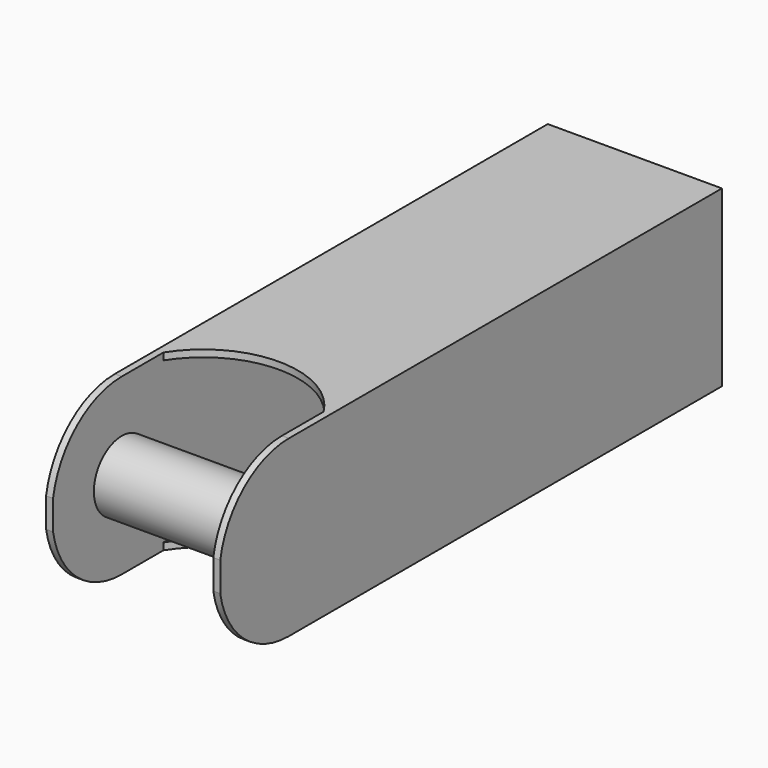
from build123d import *

# Parameters (mm, degrees)
F0_W      = 25
F0_H      = 25
F1_DEPTH  = 75
F2_W      = 23
F2_H      = 23
F3_DEPTH  = 75.001
F5_DEPTH  = 25
F7_DEPTH  = 25
F8_R      = 5
F9_DEPTH  = 25
F11_DEPTH = 25
F12_W     = 25
F12_H     = 25
F12_W_2   = 23
F12_H_2   = 23
F13_DEPTH = 15


with BuildPart() as f1:
    # F0 (on Front) → F1 (new body)
    with BuildSketch(Plane.XZ):
        Rectangle(F0_W, F0_H)
    extrude(amount=F1_DEPTH)

    # F2 (on face) → F3 (cut, through all)
    with BuildSketch(Plane.XZ.offset(75)):
        Rectangle(F2_W, F2_H)
    extrude(amount=-F3_DEPTH, mode=Mode.SUBTRACT)

    # F4 (on face) → F5 (cut)
    with BuildSketch(Plane.YZ.offset(12.5)):
        with BuildLine():
            ThreePointArc((-62.679358, -12.5), (-75.179358, 0), (-62.679358, 12.5))
            Line((-62.679358, 12.5), (-82.116477, 25.394978))
            Line((-82.116477, 25.394978), (-83.688773, -18.652776))
            Line((-83.688773, -18.652776), (-60.308628, -22.777025))
            Line((-60.308628, -22.777025), (-62.679358, -12.5))
        make_face()
    extrude(amount=-F5_DEPTH, mode=Mode.SUBTRACT)

    # F6 (on face) → F7 (cut)
    with BuildSketch(Plane.XY.offset(12.5)):
        Polygon((-11.5, -67.578337), (-11.5, -75), (11.5, -75), (11.5, -67.578337), (11.5, -55.207212), (-11.5, -55.207212), align=None)
    extrude(amount=-F7_DEPTH, mode=Mode.SUBTRACT)

    # F8 (on face) → F9 (join)
    with BuildSketch(Plane.YZ.offset(12.5)):
        with Locations((-62.679358, 0)):
            Circle(F8_R)
    extrude(amount=-F9_DEPTH)

    # F10 (on face) → F11 (cut)
    with BuildSketch(Plane(origin=(0, 0, -12.5), x_dir=(1, 0, 0), z_dir=(0, 0, -1))):
        with BuildLine():
            Line((11.5, 55.207212), (-11.5, 55.207212))
            ThreePointArc((-11.5, 55.207212), (0, 48.848382), (11.5, 55.207212))
        make_face()
    extrude(amount=-F11_DEPTH, mode=Mode.SUBTRACT)

    # F12 (on face) → F13 (join)
    with BuildSketch(Plane.XZ):
        Rectangle(F12_W, F12_H)
        Rectangle(F12_W_2, F12_H_2, mode=Mode.SUBTRACT)
    extrude(amount=-F13_DEPTH)


solid = f1.part
